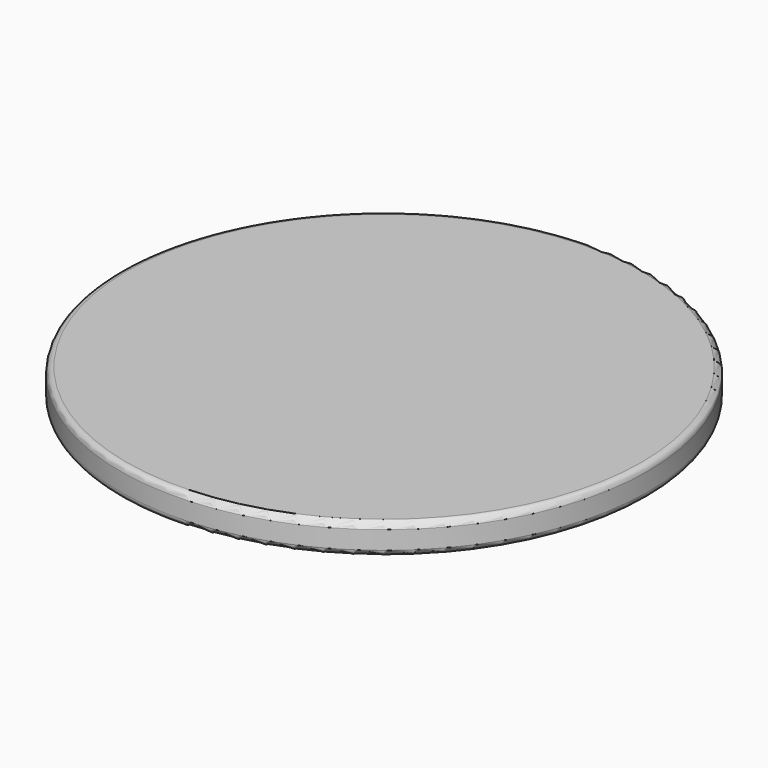
from build123d import *

# Parameters (mm, degrees)
F0_R     = 43.5
F0_R_2   = 40.5
F1_DEPTH = 2
F2_R     = 43.5
F3_DEPTH = 3
F6_R     = 1


with BuildPart() as f1:
    # F0 (on Top) → F1 (new body)
    with BuildSketch(Plane.XY):
        Circle(F0_R)
        Circle(F0_R_2, mode=Mode.SUBTRACT)
    extrude(amount=F1_DEPTH)

    # F2 (on face) → F3 (join)
    with BuildSketch(Plane.XY.offset(2)):
        Circle(F2_R)
    extrude(amount=F3_DEPTH)

    # F4 (on Front) → F5 (revolve)
    with BuildSketch(Plane.XZ):
        Polygon((40, 0.5), (40.5, 0), (40.5, 1), align=None)
    revolve(axis=Axis((0, 0, -3.5082), (0, 0, -1)))

    # F6
    f6_edges = [f1.edges().sort_by_distance(p)[0] for p in [
        (-43.5, 0, 5),
        (-43.5, 0, 0),
    ]]
    fillet(f6_edges, radius=F6_R)


solid = f1.part
